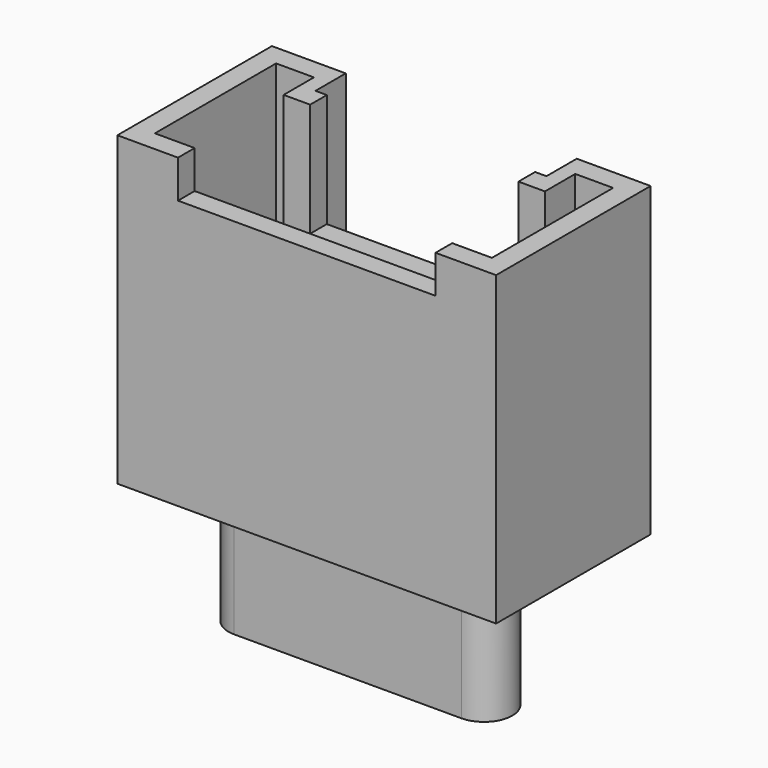
from build123d import *

# Parameters (mm, degrees)
PAD005_DEPTH            = 8.1
POCKET003_DEPTH         = 7
SKETCH010_W             = 6.8
SKETCH010_H             = 5
POCKET004_DEPTH         = 1
SKETCH011_W             = 5.5
SKETCH011_H             = 3
POCKET005_DEPTH         = 3
PAD006_DEPTH            = 4
PAD014_DEPTH            = 3.4
BODY005_PLACEMENT_ANGLE = 180


with BuildPart() as part:
    # Sketch008 → Pad005 (new body)
    with BuildSketch(Plane.XY):
        Polygon((-5, 0), (-3.05, 0), (-3.05, 1), (3.05, 1), (3.05, 0), (5, 0), (5, 5.1), (-5, 5.1), align=None)
    extrude(amount=PAD005_DEPTH)

    # Sketch009 (on Face10 of Pad005) → Pocket003 (cut)
    with BuildSketch(Plane.XY.offset(8.1)):
        Polygon((-4.45, 0.55), (-3.45, 0.55), (-3.45, 1.55), (3.45, 1.55), (3.45, 0.55), (4.45, 0.55), (4.45, 4.55), (-4.45, 4.55), align=None)
    extrude(amount=-POCKET003_DEPTH, mode=Mode.SUBTRACT)

    # Sketch010 (on Face5 of Pocket003) → Pocket004 (cut)
    with BuildSketch(Plane.XY.offset(8.1)):
        with Locations((0, 5.5)):
            Rectangle(SKETCH010_W, SKETCH010_H)
    extrude(amount=-POCKET004_DEPTH, mode=Mode.SUBTRACT)

    # Sketch011 (on Face5 of Pocket004) → Pocket005 (cut)
    with BuildSketch(Plane.XY.offset(8.1)):
        with Locations((0, 1.5)):
            Rectangle(SKETCH011_W, SKETCH011_H)
    extrude(amount=-POCKET005_DEPTH, mode=Mode.SUBTRACT)

    # Sketch012 (on Face26 of Pocket005) → Pad006 (join)
    with BuildSketch(Plane.XY.offset(1.1)):
        with BuildLine():
            ThreePointArc((-3.4, 3.25), (-3.65, 3), (-3.4, 2.75))
            Line((-3.4, 2.75), (3.4, 2.75))
            ThreePointArc((3.4, 2.75), (3.65, 3), (3.4, 3.25))
            Line((-3.4, 3.25), (3.4, 3.25))
        make_face()
    extrude(amount=PAD006_DEPTH)

    # Sketch020 (on Face4 of Pad006) → Pad014 (join)
    with BuildSketch(Plane(origin=(0, 0, 0), x_dir=(1, 0, 0), z_dir=(0, 0, -1))):
        with BuildLine():
            ThreePointArc((-3, -2.25), (-3.75, -3), (-3, -3.75))
            Line((-3, -3.75), (3, -3.75))
            ThreePointArc((3, -3.75), (3.75, -3), (3, -2.25))
            Line((-3, -2.25), (3, -2.25))
        make_face()
    extrude(amount=PAD014_DEPTH)


with BuildPart() as part_1:
    # Body005 placement: moved
    add(part.part.moved(Location((-7, 29, 0))).rotate(Axis((-7, 29, 0), (0, 0, 1)), BODY005_PLACEMENT_ANGLE))


with BuildPart() as part_2:
    # Body006 placement: moved
    add(part_1.part.moved(Location((0, 8, 0))))


solid = part_2.part
